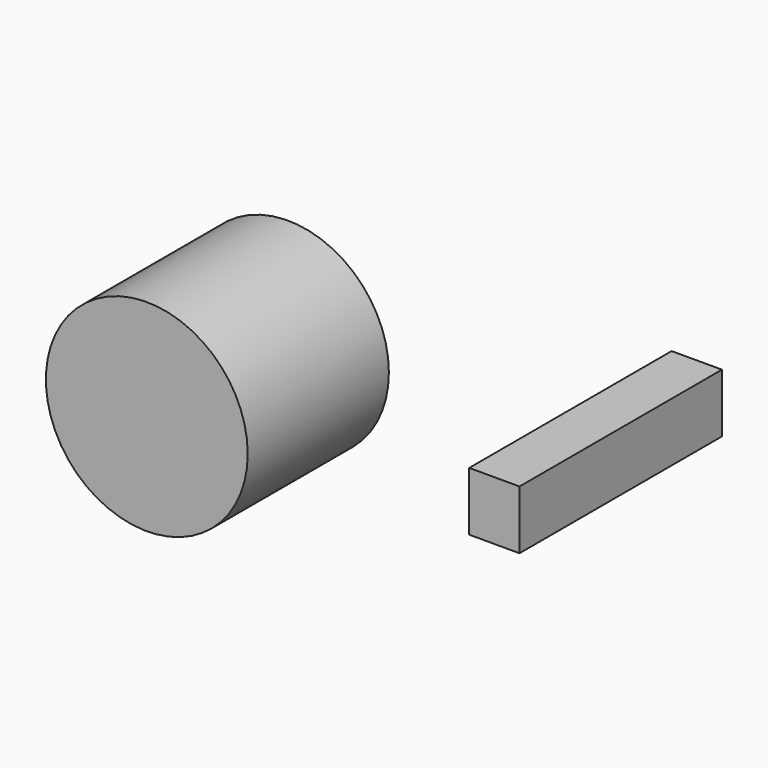
from build123d import *

# Parameters (mm, degrees)
F0_W     = 21.721147
F0_H     = 109.28075
F1_DEPTH = 25.4
F2_R     = 43.584005
F3_DEPTH = 76.2


with BuildPart() as f1:
    # F0 (on Top) → F1 (new body)
    with BuildSketch(Plane.XY):
        with Locations((27.135755, 54.640375)):
            Rectangle(F0_W, F0_H)
    extrude(amount=F1_DEPTH)


with BuildPart() as f3:
    # F2 (on Front) → F3 (new body)
    with BuildSketch(Plane.XZ):
        with Locations((-61.994564, 50.406955)):
            Circle(F2_R)
    extrude(amount=F3_DEPTH)


solid = Compound([f1.part, f3.part])
